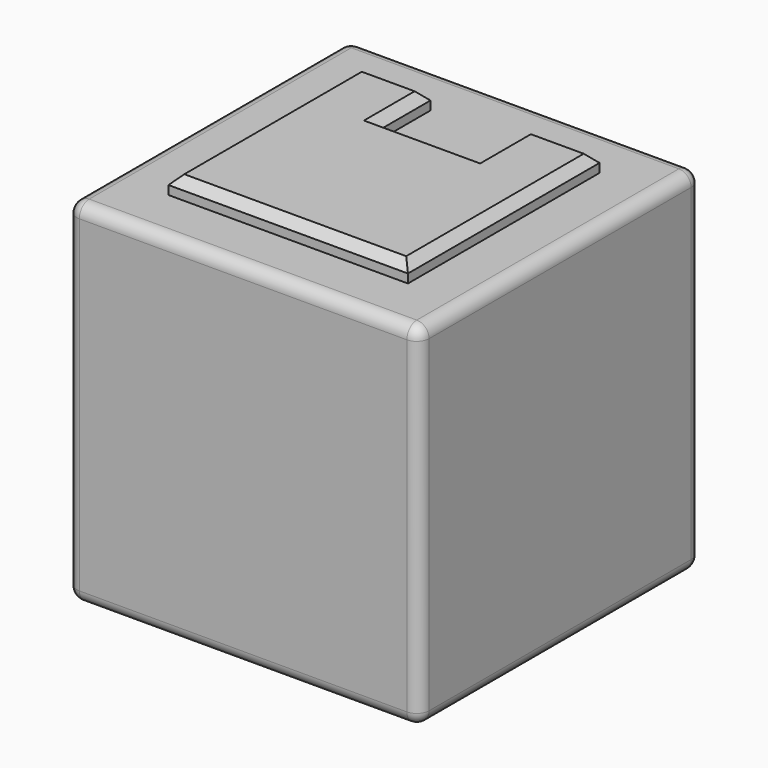
from build123d import *

# Parameters (mm, degrees)
F0_W      = 50.8
F0_H      = 50.8
F1_DEPTH  = 50.8
F2_R      = 10.16
F3_DEPTH  = 2.54
F4_W      = 25.4
F4_H      = 14.759139
F5_DEPTH  = 2.54
F6_W      = 7.62
F6_H      = 2.876111
F7_DEPTH  = 5.08
F8_R      = 3.81
F9_DEPTH  = 5.08
F10_R     = 1.905
F11_DEPTH = 20.32
F12_R     = 1.778
F14_DEPTH = 53.34
F15_SIZE  = 1.27


with BuildPart() as f1:
    # F0 (on Front) → F1 (new body)
    with BuildSketch(Plane.XZ):
        with Locations((25.4, 25.4)):
            Rectangle(F0_W, F0_H)
    extrude(amount=F1_DEPTH)

    # F2 (on Right) → F3 (join)
    with BuildSketch(Plane.YZ):
        with Locations((-25.4, 35.56)):
            Circle(F2_R)
    extrude(amount=-F3_DEPTH)

    # F4 (on Right) → F5 (join)
    with BuildSketch(Plane.YZ):
        with Locations((-25.4, 10.40043)):
            Rectangle(F4_W, F4_H)
    extrude(amount=-F5_DEPTH)

    # F6 (on Right) → F7 (cut)
    with BuildSketch(Plane.YZ):
        with Locations((-19.05, 13.801944)):
            Rectangle(F6_W, F6_H)
        with Locations((-31.75, 13.801944)):
            Rectangle(F6_W, F6_H)
    extrude(amount=-F7_DEPTH, mode=Mode.SUBTRACT)

    # F8 (on Right) → F9 (join)
    with BuildSketch(Plane.YZ):
        with Locations((-25.4, 8.100861)):
            Circle(F8_R)
    extrude(amount=-F9_DEPTH)

    # F10 (on Right) → F11 (cut)
    with BuildSketch(Plane.YZ):
        with Locations((-31.771343, 38.1)):
            Circle(F10_R)
        with Locations((-19.028657, 38.1)):
            Circle(F10_R)
        with Locations((-19.028657, 33.02)):
            Circle(F10_R)
        with Locations((-31.771343, 33.02)):
            Circle(F10_R)
    extrude(amount=-F11_DEPTH, mode=Mode.SUBTRACT)

    # F12
    f12_edges = [f1.edges().sort_by_distance(p)[0] for p in [
        (0, -50.8, 25.4),
        (25.4, -50.8, 0),
        (50.8, -50.8, 25.4),
        (25.4, -50.8, 50.8),
        (50.8, -25.4, 50.8),
        (0, -25.4, 50.8),
        (25.4, 0, 50.8),
        (50.8, -25.4, 0),
        (50.8, 0, 25.4),
        (0, 0, 25.4),
        (25.4, 0, 0),
        (0, -25.4, 0),
    ]]
    fillet(f12_edges, radius=F12_R)

    # F13 (on Top) → F14 (join)
    with BuildSketch(Plane.XY):
        Polygon((18.288, -8.128), (8.128, -8.128), (8.128, -42.672), (42.672, -42.672), (42.672, -8.128), (32.512, -8.128), (32.512, -17.272), (18.288, -17.272), align=None)
    extrude(amount=F14_DEPTH)

    # F15
    f15_edges = [f1.edges().sort_by_distance(p)[0] for p in [
        (13.208, -8.128, 53.34),
        (8.128, -25.4, 53.34),
        (25.4, -42.672, 53.34),
        (42.672, -25.4, 53.34),
        (37.592, -8.128, 53.34),
        (32.512, -12.7, 53.34),
        (25.4, -17.272, 53.34),
        (18.288, -12.7, 53.34),
    ]]
    chamfer(f15_edges, length=F15_SIZE)


solid = f1.part
